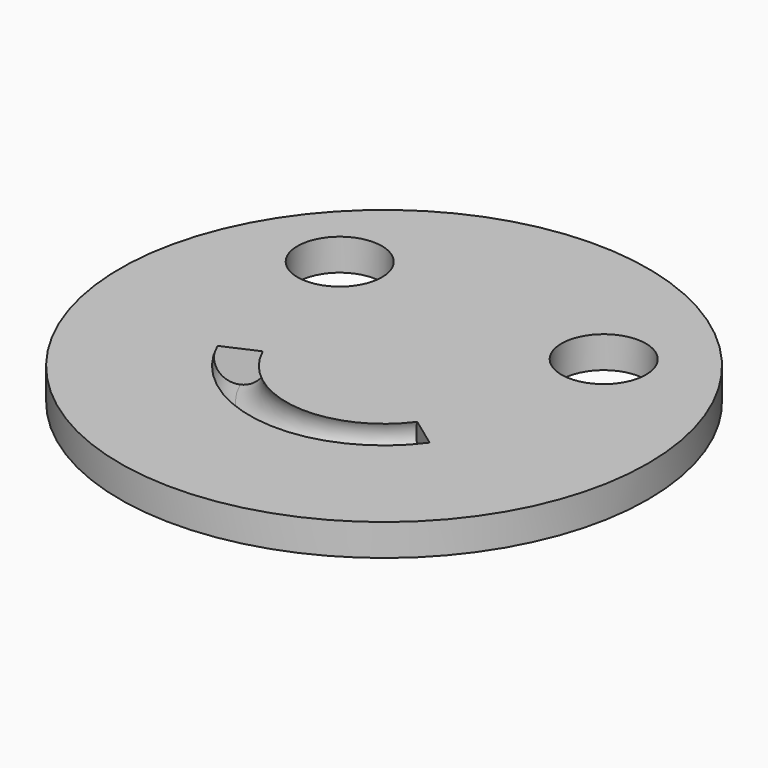
from build123d import *

# Parameters (mm, degrees)
TORUS_R               = 2
TORUS_ANGLE           = 120
TORUS_PLACEMENT_ANGLE = 204
CYLINDER002_R         = 4
CYLINDER002_DEPTH     = 10
CYLINDER001_R         = 4
CYLINDER001_DEPTH     = 10
CYLINDER_R            = 25
CYLINDER_DEPTH        = 3


with BuildPart() as toro:
    # Torus → Torus (revolve)
    with BuildSketch(Plane.XZ):
        with Locations((11, 0)):
            Circle(TORUS_R)
    revolve(axis=Axis((0, 0, 0), (0, 0, 1)), revolution_arc=TORUS_ANGLE)


with BuildPart() as toro_1:
    # Torus placement: moved
    add(toro.part.moved(Location((0, 0, 2))).rotate(Axis((0, 0, 2), (0, 0, 1)), TORUS_PLACEMENT_ANGLE))


with BuildPart() as cilindro002:
    # Cylinder002 → Cylinder002 (new body)
    with BuildSketch(Plane(origin=(12, 11, -2), x_dir=(1, 0, 0), z_dir=(0, 0, 1))):
        Circle(CYLINDER002_R)
    extrude(amount=CYLINDER002_DEPTH)


with BuildPart() as fusion:
    # Cylinder001 → Cylinder001 (new body)
    with BuildSketch(Plane(origin=(-13, 11, -2), x_dir=(1, 0, 0), z_dir=(0, 0, 1))):
        Circle(CYLINDER001_R)
    extrude(amount=CYLINDER001_DEPTH)

    # Fusion: union Cilindro002
    add(cilindro002.part)


with BuildPart() as cut001:
    # Cylinder → Cylinder (new body)
    with BuildSketch(Plane.XY):
        Circle(CYLINDER_R)
    extrude(amount=CYLINDER_DEPTH)

    # Cut: cut Fusion
    add(fusion.part, mode=Mode.SUBTRACT)

    # Cut001: cut Toro
    add(toro_1.part, mode=Mode.SUBTRACT)


solid = cut001.part
